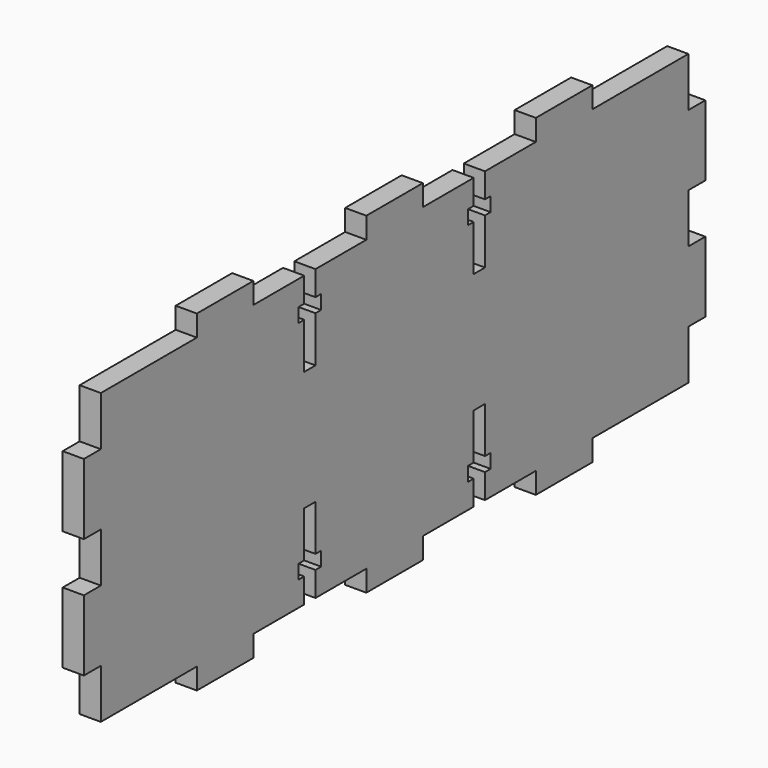
from build123d import *

# Parameters (mm, degrees)
F1_DEPTH = 3


with BuildPart() as f1:
    # F0 (on Right) → F1 (new body)
    with BuildSketch(Plane.YZ):
        Polygon((0, 7), (0, 0), (17, 0), (17, -3), (27, -3), (27, 0), (33.535082, 0), (36, 0), (36, 3.5), (35, 3.5), (35, 5.5), (36, 5.5), (36, 12), (38, 12), (38, 5.5), (39, 5.5), (39, 3.5), (38, 3.5), (38, 0), (38.090959, 0), (47, 0), (47, -3), (52, -3), (57, -3), (57, 0), (65.909041, 0), (66, 0), (66, 3.5), (65, 3.5), (65, 5.5), (66, 5.5), (66, 12), (68, 12), (68, 5.5), (69, 5.5), (69, 3.5), (68, 3.5), (68, 0), (70.464918, 0), (77, 0), (77, -3), (87, -3), (87, 0), (104, 0), (104, 7), (107, 7), (107, 17), (104, 17), (104, 24), (107, 24), (107, 34), (104, 34), (104, 41), (87, 41), (87, 44), (77, 44), (77, 41), (70.464918, 41), (68, 41), (68, 37.5), (69, 37.5), (69, 35.5), (68, 35.5), (68, 29), (66, 29), (66, 35.5), (65, 35.5), (65, 37.5), (66, 37.5), (66, 41), (65.909041, 41), (57, 41), (57, 44), (52, 44), (47, 44), (47, 41), (38.090959, 41), (38, 41), (38, 37.5), (39, 37.5), (39, 35.5), (38, 35.5), (38, 29), (36, 29), (36, 35.5), (35, 35.5), (35, 37.5), (36, 37.5), (36, 41), (33.535082, 41), (27, 41), (27, 44), (17, 44), (17, 41), (0, 41), (0, 34), (-3, 34), (-3, 24), (0, 24), (0, 17), (-3, 17), (-3, 7), align=None)
    extrude(amount=F1_DEPTH)


solid = f1.part
